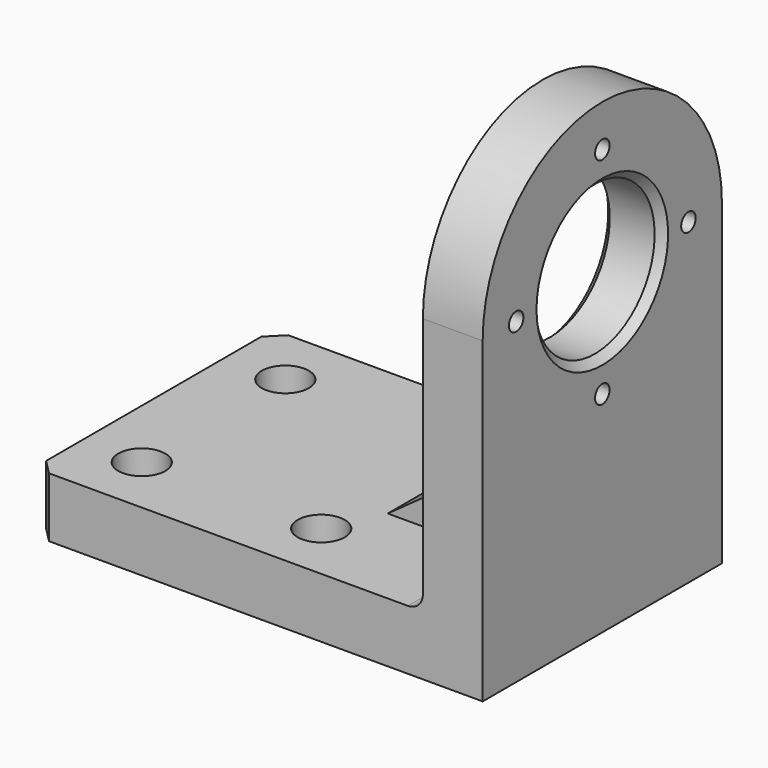
from build123d import *

# Parameters (mm, degrees)
F1_DEPTH        = 40
F2_W            = 300
F2_H            = 200
F3_DEPTH        = 40
F4_W            = 83.487585187
F4_H            = 50
F5_DEPTH        = 60
F7_DEPTH        = 125.001
F8_R            = 10
F10_D           = 12.1
F11_SIZE        = 5
F13_D           = 17.5
F13_CBORE_D     = 31.5
F13_CBORE_DEPTH = 20
F14_SIZE        = 10


with BuildPart() as f1:
    # F0 (on Right) → F1 (new body)
    with BuildSketch(Plane.YZ):
        with BuildLine():
            Line((-100, 106.1599394854), (-100, -106.1599394854))
            Line((-100, -106.1599394854), (100, -106.1599394854))
            Line((100, -106.1599394854), (100, 106.1599394854))
            Line((100, 106.1599394854), (50, 106.1599394854))
            ThreePointArc((50, 106.1599394854), (0, 56.1599394854), (-50, 106.1599394854))
            Line((-50, 106.1599394854), (-100, 106.1599394854))
        make_face()
        with BuildLine():
            ThreePointArc((100, 106.1599394854), (0, 206.1599394854), (-100, 106.1599394854))
            Line((-100, 106.1599394854), (-50, 106.1599394854))
            ThreePointArc((-50, 106.1599394854), (0, 156.1599394854), (50, 106.1599394854))
            Line((50, 106.1599394854), (100, 106.1599394854))
        make_face()
    extrude(amount=F1_DEPTH)

    # F2 (on face) → F3 (join)
    with BuildSketch(Plane(origin=(0, 0, -106.1599394854), x_dir=(1, 0, 0), z_dir=(0, 0, -1))):
        with Locations((-110, 0)):
            Rectangle(F2_W, F2_H)
    extrude(amount=-F3_DEPTH)

    # F4 (on face) → F5 (join)
    with BuildSketch(Plane.XY.offset(-66.1599394854)):
        with Locations((-41.7437925935, 0)):
            Rectangle(F4_W, F4_H)
    extrude(amount=F5_DEPTH)

    # F6 (on face) → F7 (cut, through all)
    with BuildSketch(Plane(origin=(0, 25, 0), x_dir=(-1, 0, 0), z_dir=(0, 1, 0))):
        Polygon((83.487585187, -6.1599394854), (0, -6.1599394854), (83.487585187, -66.1599394854), align=None)
    extrude(amount=-F7_DEPTH, mode=Mode.SUBTRACT)

    # F8
    f8_edges = [f1.edges().sort_by_distance(p)[0] for p in [
        (0, 62.5, -66.159939),
        (0, -62.5, -66.159939),
    ]]
    fillet(f8_edges, radius=F8_R)

    # F10 (through all)
    with Locations(Plane(origin=(0, 0, 0), x_dir=(0, -1, 0), z_dir=(-1, 0, 0))):
        with Locations((0, 178.1599394854), (-72, 106.1599394854), (0, 34.1599394854), (72, 106.1599394854)):
            Hole(F10_D / 2)

    # F11
    f11_edges = [f1.edges().sort_by_distance(p)[0] for p in [
        (0, 50, 106.159939),
        (40, 50, 106.159939),
    ]]
    chamfer(f11_edges, length=F11_SIZE)

    # F13 (through all)
    with Locations(Plane.XY.offset(-66.1599394854)):
        with Locations((-220, 60), (-220, -60), (-100, 60), (-100, -60)):
            CounterBoreHole(F13_D / 2, F13_CBORE_D / 2, F13_CBORE_DEPTH)

    # F14
    f14_edges = [f1.edges().sort_by_distance(p)[0] for p in [
        (-260, 100, -86.159939),
        (-260, -100, -86.159939),
    ]]
    chamfer(f14_edges, length=F14_SIZE)


solid = f1.part
